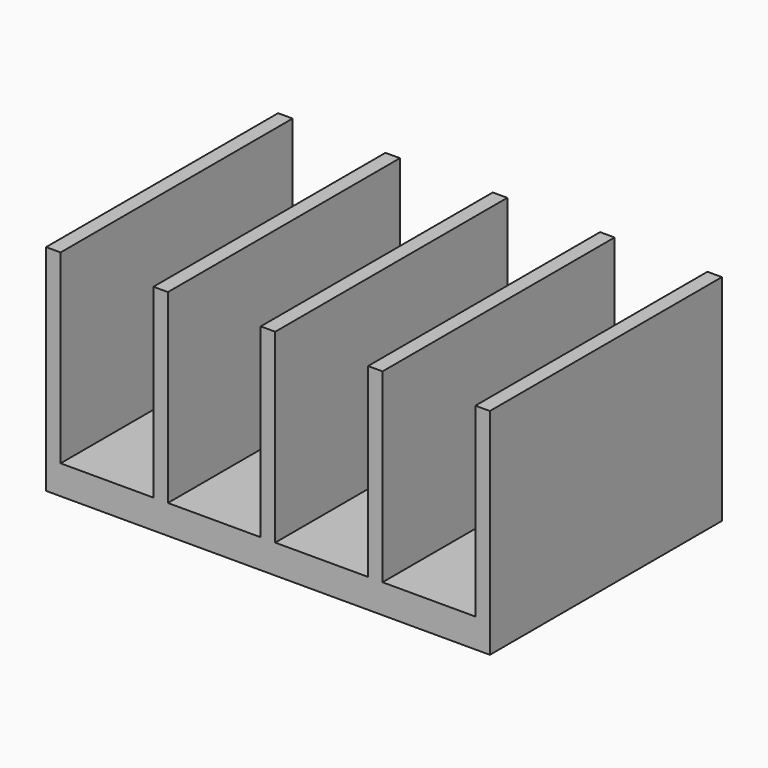
from build123d import *

# Parameters (mm, degrees)
F0_W     = 3.175
F0_H     = 40.64
F1_DEPTH = 63.5


with BuildPart() as f1:
    # F0 (on Front) → F1 (new body)
    with BuildSketch(Plane.XZ):
        Polygon((48.5775, -3.175), (48.5775, 3.175), (45.4025, 3.175), (25.0825, 3.175), (21.9075, 3.175), (1.5875, 3.175), (-1.5875, 3.175), (-21.9075, 3.175), (-25.0825, 3.175), (-45.4025, 3.175), (-48.5775, 3.175), (-48.5775, -3.175), align=None)
        with Locations((46.99, 23.495)):
            Rectangle(F0_W, F0_H)
        with Locations((23.495, 23.495)):
            Rectangle(F0_W, F0_H)
        with Locations((-46.99, 23.495)):
            Rectangle(F0_W, F0_H)
        with Locations((0, 23.495)):
            Rectangle(F0_W, F0_H)
        with Locations((-23.495, 23.495)):
            Rectangle(F0_W, F0_H)
    extrude(amount=F1_DEPTH)


solid = f1.part
